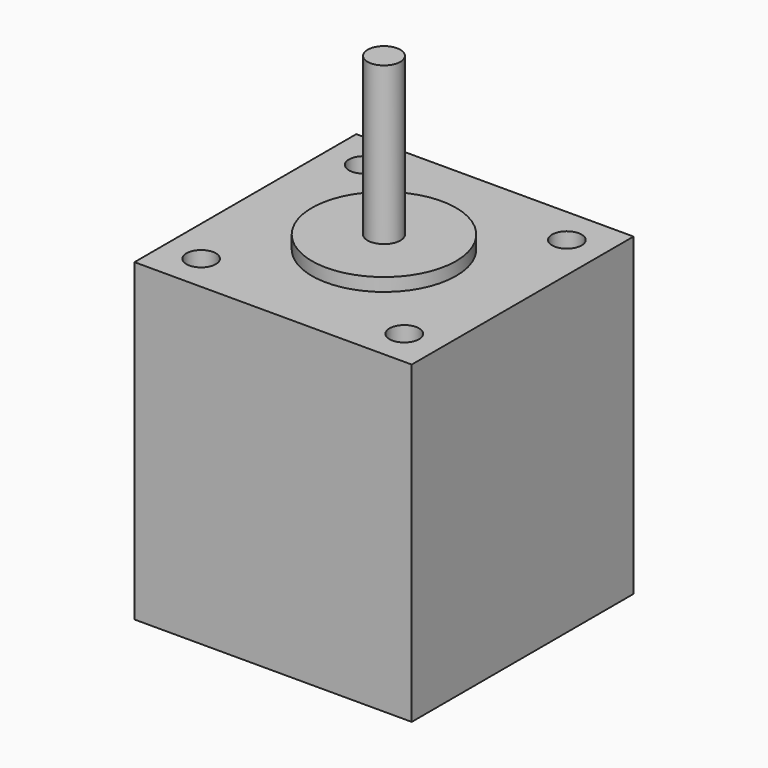
from build123d import *

# Parameters (mm, degrees)
F4_W     = 42.3
F4_H     = 42.3
F4_R     = 11
F5_DEPTH = 48
F4_R_2   = 2.5
F6_DEPTH = 50
F7_DEPTH = 74
F8_D     = 4.5
F8_DEPTH = 48
F8_TIP   = 1.3519363928


with BuildPart() as f5:
    # F4 (on Top) → F5 (new body)
    with BuildSketch(Plane.XY):
        Rectangle(F4_W, F4_H)
        Circle(F4_R, mode=Mode.SUBTRACT)
    extrude(amount=F5_DEPTH)

    # F4 (on Top) → F6 (join)
    with BuildSketch(Plane.XY):
        Circle(F4_R)
        Circle(F4_R_2, mode=Mode.SUBTRACT)
    extrude(amount=F6_DEPTH)

    # F4 (on Top) → F7 (join)
    with BuildSketch(Plane.XY):
        Circle(F4_R_2)
    extrude(amount=F7_DEPTH)

    # F8
    with Locations(Plane(origin=(0, 0, 0), x_dir=(1, 0, 0), z_dir=(0, 0, -1))):
        with Locations((15.5, -15.5), (-15.5, -15.5), (-15.5, 15.5), (15.5, 15.5)):
            Hole(F8_D / 2, depth=F8_DEPTH)
            with Locations((0, 0, -(F8_DEPTH + F8_TIP / 2))):  # 118° drill point
                Cone(0, F8_D / 2, F8_TIP, mode=Mode.SUBTRACT)


solid = f5.part
